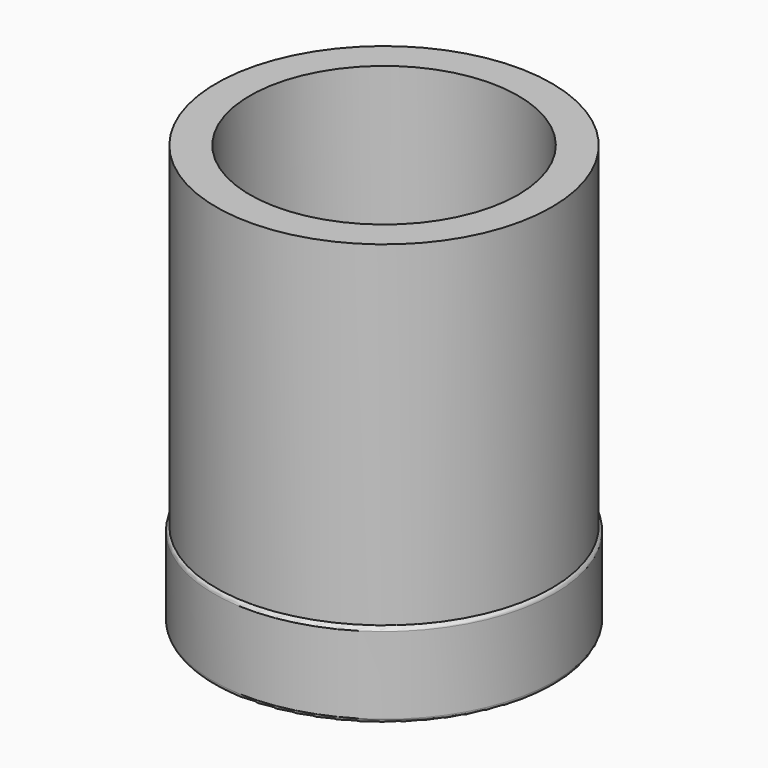
from build123d import *


with BuildPart() as f1:
    # F0 (on Front) → F1 (revolve)
    with BuildSketch(Plane.XZ):
        Polygon((12.5, 12.5), (10, 12.5), (10, -12.5), (12.4, -12.5), (12.5, -12.5), align=None)
    revolve(axis=Axis((0, 0, 0), (0, 0, -1)))


with BuildPart() as f3:
    # F0 (on Front) → F3 (revolve)
    with BuildSketch(Plane.XZ):
        with BuildLine():
            Line((12.4, -12.5), (10, -12.5))
            Line((10, -12.5), (0, -12.5))
            Line((0, -12.5), (0, -18.85))
            Line((0, -18.85), (12.4, -18.85))
            ThreePointArc((12.4, -18.85), (12.612132, -18.762132), (12.7, -18.55))
            Line((12.7, -18.55), (12.7, -12.8))
            ThreePointArc((12.7, -12.8), (12.612132, -12.587868), (12.4, -12.5))
        make_face()
    revolve(axis=Axis((0, 0, -15.675), (0, 0, -1)))


solid = Compound([f1.part, f3.part])
